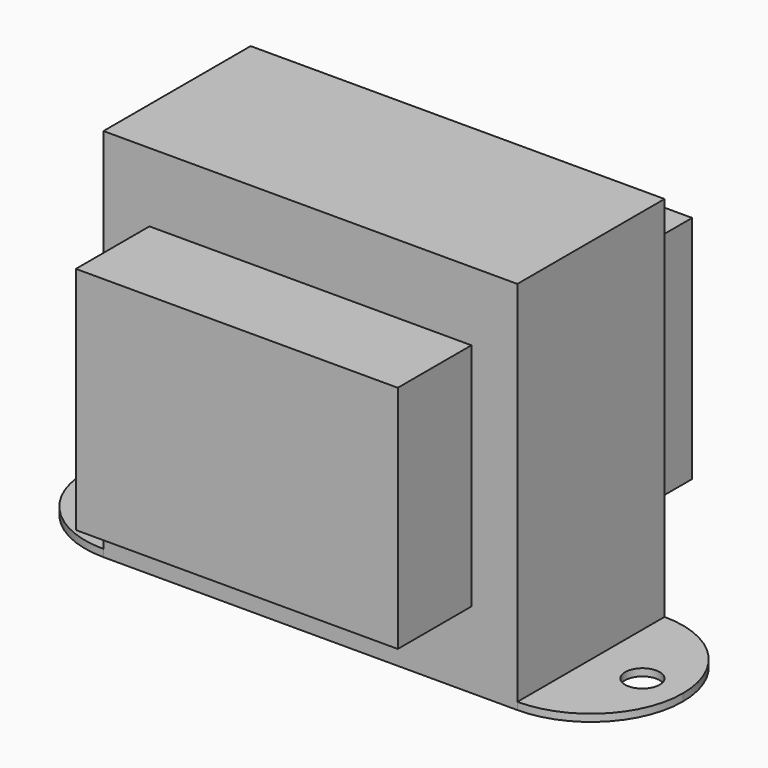
from build123d import *

# Parameters (mm, degrees)
F1_DEPTH = 1
F3_D     = 4.7625
F4_W     = 57.15
F4_H     = 25.4
F5_DEPTH = 50.8
F6_W     = 44.45
F6_H     = 31.75
F7_DEPTH = 25.4


with BuildPart() as f1:
    # F0 (on Top) → F1 (new body)
    with BuildSketch(Plane.XY):
        with BuildLine():
            ThreePointArc((-28.575, 12.7), (-41.275, 0), (-28.575, -12.7))
            Line((-28.575, -12.7), (-28.575, 12.7))
        make_face()
        with BuildLine():
            Line((-28.575, 12.7), (-28.575, -12.7))
            ThreePointArc((-28.575, -12.7), (-19.594744, -8.980256), (-15.875, 0))
            ThreePointArc((-15.875, 0), (-19.594744, 8.980256), (-28.575, 12.7))
        make_face()
        with BuildLine():
            ThreePointArc((-15.875, 0), (-19.594744, -8.980256), (-28.575, -12.7))
            Line((-28.575, -12.7), (28.575, -12.7))
            ThreePointArc((28.575, -12.7), (15.875, 0), (28.575, 12.7))
            Line((28.575, 12.7), (-28.575, 12.7))
            ThreePointArc((-28.575, 12.7), (-19.594744, 8.980256), (-15.875, 0))
        make_face()
        with BuildLine():
            ThreePointArc((28.575, 12.7), (15.875, 0), (28.575, -12.7))
            Line((28.575, -12.7), (28.575, 12.7))
        make_face()
        with BuildLine():
            Line((28.575, 12.7), (28.575, -12.7))
            ThreePointArc((28.575, -12.7), (37.555256, -8.980256), (41.275, 0))
            ThreePointArc((41.275, 0), (37.555256, 8.980256), (28.575, 12.7))
        make_face()
    extrude(amount=F1_DEPTH)

    # F3 (through all)
    with Locations(Plane.XY.offset(1)):
        with Locations((-35.687, 0), (35.687, 0)):
            Hole(F3_D / 2)

    # F4 (on face) → F5 (join)
    with BuildSketch(Plane.XY.offset(1)):
        Rectangle(F4_W, F4_H)
    extrude(amount=F5_DEPTH)

    # F6 (on Front) → F7 (join, symmetric)
    with BuildSketch(Plane.XZ):
        with Locations((0, 26.4)):
            Rectangle(F6_W, F6_H)
    extrude(amount=F7_DEPTH, both=True)


solid = f1.part
